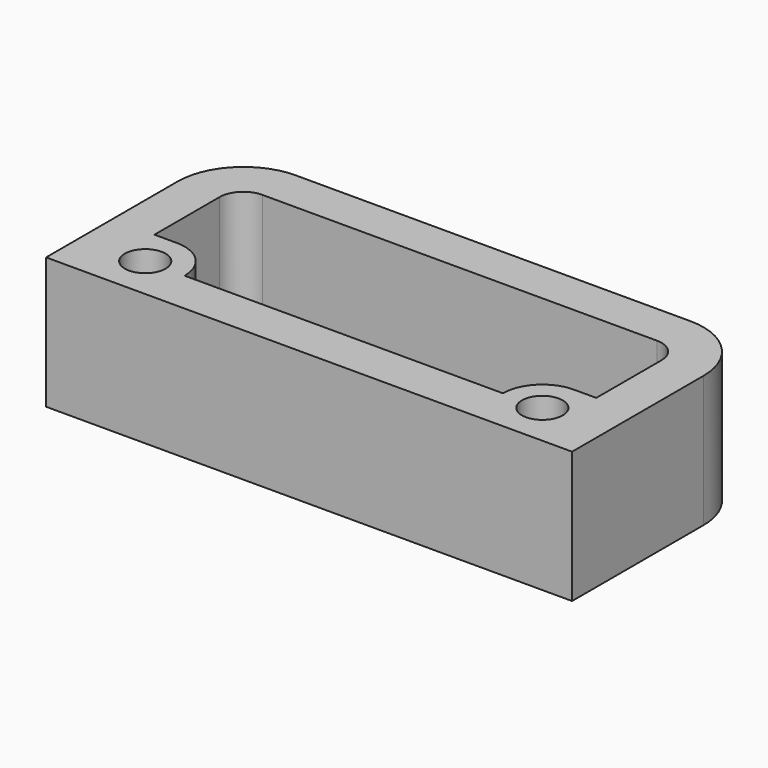
from build123d import *

# Parameters (mm, degrees)
F0_R     = 1.55
F1_DEPTH = 10


with BuildPart() as f1:
    # F0 (on Top) → F1 (new body)
    with BuildSketch(Plane.XY):
        with BuildLine():
            Line((16.8, -8.75), (20, -8.75))
            Line((20, -8.75), (20, 3.75))
            ThreePointArc((20, 3.75), (18.535534, 7.285534), (15, 8.75))
            Line((15, 8.75), (-15, 8.75))
            ThreePointArc((-15, 8.75), (-18.535534, 7.285534), (-20, 3.75))
            Line((-20, 3.75), (-20, -8.75))
            Line((-20, -8.75), (-16.8, -8.75))
            Line((-16.8, -8.75), (-16.8, -2.978159))
            Line((-16.8, -2.978159), (-16.8, -2.45))
            Line((-16.8, -2.45), (-16.8, 3.75))
            ThreePointArc((-16.8, 3.75), (-16.272792, 5.022792), (-15, 5.55))
            Line((-15, 5.55), (15, 5.55))
            ThreePointArc((15, 5.55), (16.272792, 5.022792), (16.8, 3.75))
            Line((16.8, 3.75), (16.8, -2.45))
            Line((16.8, -2.45), (16.8, -2.978159))
            Line((16.8, -2.978159), (16.8, -8.75))
        make_face()
        with BuildLine():
            Line((-16.8, -8.75), (16.8, -8.75))
            Line((16.8, -8.75), (16.8, -2.978159))
            ThreePointArc((16.8, -2.978159), (15.990077, -2.585081), (15.1, -2.45))
            ThreePointArc((15.1, -2.45), (12.97868, -3.32868), (12.1, -5.45))
            Line((12.1, -5.45), (-12.1, -5.45))
            ThreePointArc((-12.1, -5.45), (-12.97868, -3.32868), (-15.1, -2.45))
            ThreePointArc((-15.1, -2.45), (-15.990077, -2.585081), (-16.8, -2.978159))
            Line((-16.8, -2.978159), (-16.8, -8.75))
        make_face()
        with Locations((-15.1, -5.45)):
            Circle(F0_R, mode=Mode.SUBTRACT)
        with BuildLine():
            ThreePointArc((16.65, -5.45), (15.1, -7), (13.55, -5.45))
            ThreePointArc((13.55, -5.45), (15.1, -3.9), (16.65, -5.45))
        make_face(mode=Mode.SUBTRACT)
        with BuildLine():
            Line((-16.8, -2.45), (-16.8, -2.978159))
            ThreePointArc((-16.8, -2.978159), (-15.990077, -2.585081), (-15.1, -2.45))
            Line((-15.1, -2.45), (-16.8, -2.45))
        make_face()
        with BuildLine():
            ThreePointArc((15.1, -2.45), (15.990077, -2.585081), (16.8, -2.978159))
            Line((16.8, -2.978159), (16.8, -2.45))
            Line((16.8, -2.45), (15.1, -2.45))
        make_face()
    extrude(amount=F1_DEPTH)


solid = f1.part
